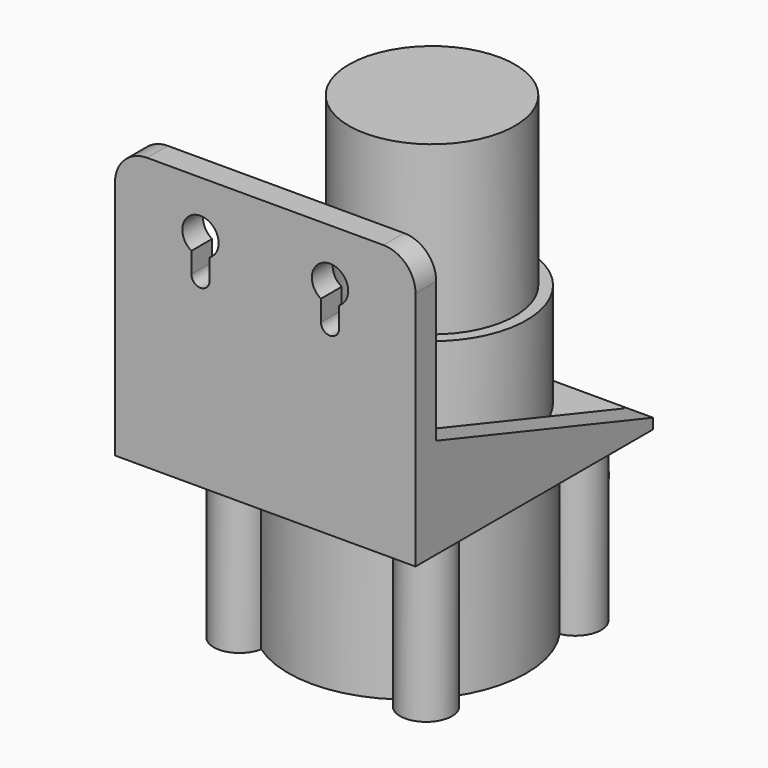
from build123d import *

# Parameters (mm, degrees)
PAD_DEPTH    = 5
PAD001_DEPTH = 29
SKETCH002_W  = 52.3
SKETCH002_H  = 29.470448
POCKET_DEPTH = 24
PAD002_DEPTH = 34
SKETCH004_R  = 18.25
PAD003_DEPTH = 20
SKETCH005_R  = 16.029802
PAD004_DEPTH = 32.3
SKETCH006_R  = 5
PAD005_DEPTH = 10


with BuildPart() as part:
    # Sketch → Pad (new body)
    with BuildSketch(Plane.XZ):
        with BuildLine():
            Line((29, 0), (29, 46.4))
            ThreePointArc((29, 46.4), (27.184062, 50.784062), (22.8, 52.6))
            Line((22.8, 52.6), (-22.8, 52.6))
            ThreePointArc((-22.8, 52.6), (-27.184062, 50.784062), (-29, 46.4))
            Line((-29, 46.4), (-29, 0))
            Line((-29, 0), (29, 0))
        make_face()
        with BuildLine():
            ThreePointArc((-10.75, 39.568911), (-12.5, 46.1), (-14.25, 39.568911))
            Line((-14.25, 39.568911), (-14.25, 35.6))
            ThreePointArc((-14.25, 35.6), (-12.5, 33.85), (-10.75, 35.6))
            Line((-10.75, 35.6), (-10.75, 39.568911))
        make_face(mode=Mode.SUBTRACT)
        with BuildLine():
            ThreePointArc((14.25, 39.568911), (12.5, 46.1), (10.75, 39.568911))
            Line((10.75, 39.568911), (10.75, 35.6))
            ThreePointArc((10.75, 35.6), (12.5, 33.85), (14.25, 35.6))
            Line((14.25, 35.6), (14.25, 39.568911))
        make_face(mode=Mode.SUBTRACT)
    extrude(amount=-PAD_DEPTH)

    # Sketch001 → Pad001 (join, symmetric)
    with BuildSketch(Plane.YZ):
        Polygon((0, 0), (57.3, 0), (57.3, 2), (0, 21), align=None)
    extrude(amount=PAD001_DEPTH, both=True)

    # Sketch002 → Pocket (cut, symmetric)
    with BuildSketch(Plane.YZ):
        with Locations((31.15, 16.735224)):
            Rectangle(SKETCH002_W, SKETCH002_H)
    extrude(amount=POCKET_DEPTH, both=True, mode=Mode.SUBTRACT)

    # Sketch003 → Pad002 (join)
    with BuildSketch(Plane.XY):
        with BuildLine():
            ThreePointArc((-13.084524, 53.215476), (-21.535534, 55.835534), (-18.915476, 47.384524))
            ThreePointArc((-18.915476, 47.384524), (-23, 34.3), (-18.915476, 21.215476))
            ThreePointArc((-18.915476, 21.215476), (-21.535534, 12.764466), (-13.084524, 15.384524))
            ThreePointArc((-13.084524, 15.384524), (0, 11.3), (13.084524, 15.384524))
            ThreePointArc((13.084524, 15.384524), (21.535534, 12.764466), (18.915476, 21.215476))
            ThreePointArc((18.915476, 21.215476), (23, 34.3), (18.915476, 47.384524))
            ThreePointArc((18.915476, 47.384524), (21.535534, 55.835534), (13.084524, 53.215476))
            ThreePointArc((13.084524, 53.215476), (0, 57.3), (-13.084524, 53.215476))
        make_face()
    extrude(amount=-PAD002_DEPTH)

    # Sketch004 (on Face30 of Pad002) → Pad003 (join)
    with BuildSketch(Plane(origin=(0, 0, 2), x_dir=(-1, 0, 0), z_dir=(0, 0, 1))):
        with Locations((0, -40.224388)):
            Circle(SKETCH004_R)
    extrude(amount=PAD003_DEPTH)

    # Sketch005 (on Face44 of Pad003) → Pad004 (join)
    with BuildSketch(Plane(origin=(0, 0, 22), x_dir=(-1, 0, 0), z_dir=(0, 0, 1))):
        with Locations((0, -40.224388)):
            Circle(SKETCH005_R)
    extrude(amount=PAD004_DEPTH)

    # Sketch006 (on Face11 of Pad004) → Pad005 (join, symmetric)
    with BuildSketch(Plane(origin=(0, 57.3, 0), x_dir=(1, 0, 0), z_dir=(0, 1, 0))):
        with Locations((-7.5, 17.241444)):
            Circle(SKETCH006_R)
        with Locations((7.5, 17.241444)):
            Circle(SKETCH006_R)
    extrude(amount=PAD005_DEPTH, both=True)


solid = part.part
